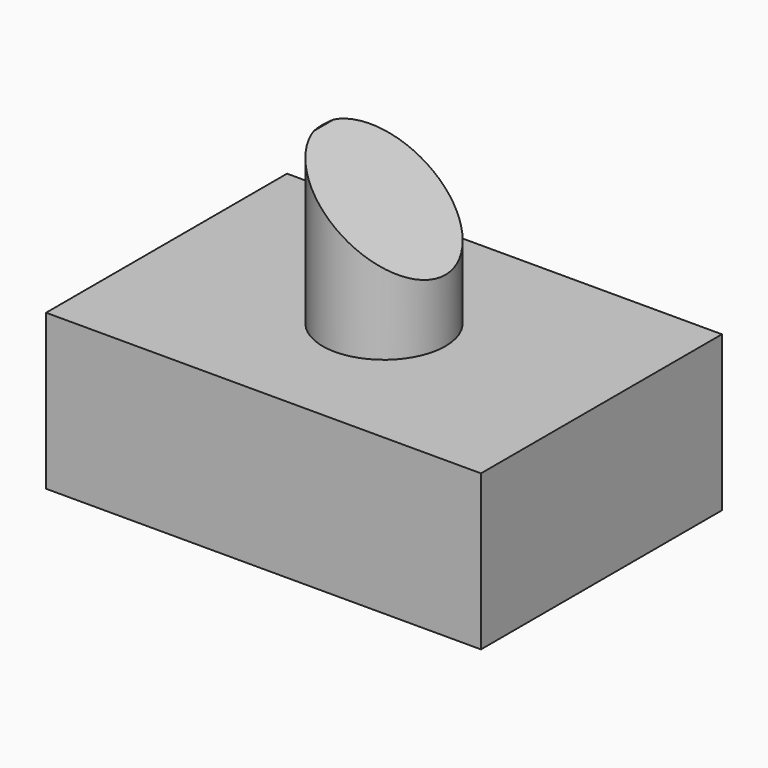
from build123d import *

# Parameters (mm, degrees)
F0_W     = 71.266532
F0_H     = 49.356132
F1_DEPTH = 25.4
F2_R     = 10.06801
F3_DEPTH = 25.4
F5_DEPTH = 46.228


with BuildPart() as f1:
    # F0 (on Top) → F1 (new body)
    with BuildSketch(Plane.XY):
        Rectangle(F0_W, F0_H)
    extrude(amount=F1_DEPTH)

    # F2 (on face) → F3 (join)
    with BuildSketch(Plane.XY.offset(25.4)):
        Circle(F2_R)
    extrude(amount=F3_DEPTH)

    # F4 (on face) → F5 (cut)
    with BuildSketch(Plane.XZ.offset(24.678066)):
        Polygon((15.782516, 50.946049), (-10.0584, 50.946049), (15.782516, 31.35702), align=None)
    extrude(amount=-F5_DEPTH, mode=Mode.SUBTRACT)


solid = f1.part
